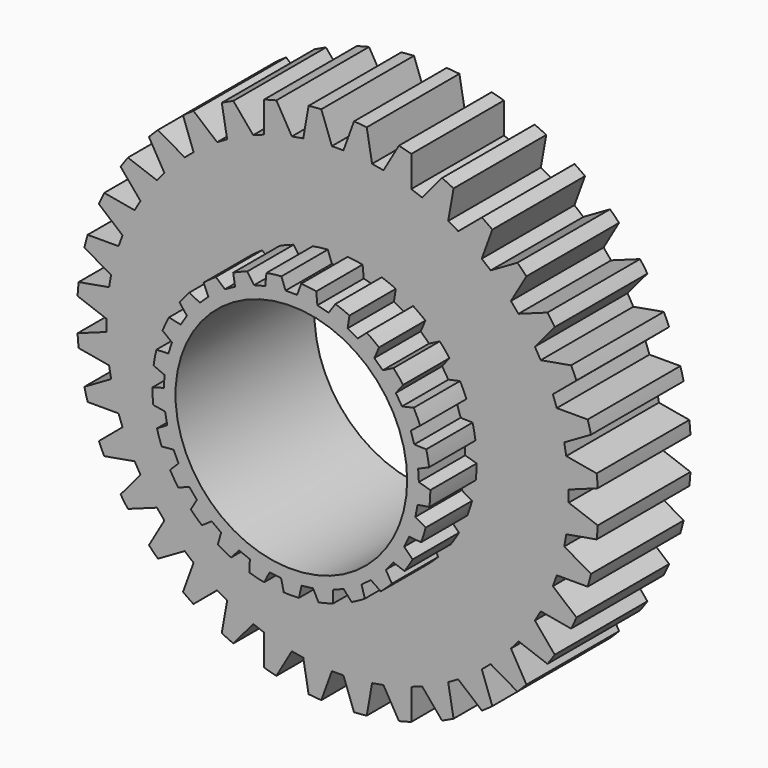
from build123d import *

# Parameters (mm, degrees)
F0_R     = 22.5
F0_R_2   = 10
F1_DEPTH = 10
F3_DEPTH = 25
F4_COUNT = 36
F2_R     = 12
F2_R_2   = 10
F5_DEPTH = 5
F7_DEPTH = 5
F8_COUNT = 25


with BuildPart() as f1:
    # F0 (on Front) → F1 (new body)
    with BuildSketch(Plane.XZ):
        Circle(F0_R)
        Circle(F0_R_2, mode=Mode.SUBTRACT)
    extrude(amount=F1_DEPTH)

    # F2 (on face) → F3 (cut)
    with BuildSketch(Plane.XZ.offset(10)):
        with BuildLine():
            Line((-0.5, 19.95), (0, 19.95))
            Line((0, 19.95), (0.5, 19.95))
            Line((0.5, 19.95), (1.4119827294, 22.4556519561))
            ThreePointArc((1.4119827294, 22.4556519561), (0, 22.5), (-1.4119827294, 22.4556519561))
            Line((-1.4119827294, 22.4556519561), (-0.5, 19.95))
        make_face()
    f3 = extrude(amount=-F3_DEPTH, mode=Mode.SUBTRACT)

    # F4: F3 ×36 about axis
    f4_axis = Axis((0, 0, 0), (0, 1, 0))
    for i in range(1, F4_COUNT):
        add(f3.rotate(f4_axis, i * 360 / F4_COUNT), mode=Mode.SUBTRACT)

    # F2 (on face) → F5 (join)
    with BuildSketch(Plane.XZ.offset(10)):
        Circle(F2_R)
        Circle(F2_R_2, mode=Mode.SUBTRACT)
    extrude(amount=F5_DEPTH)

    # F6 (on face) → F7 (cut)
    with BuildSketch(Plane.XZ.offset(15)):
        with BuildLine():
            Line((-0.5, 11), (0, 11))
            Line((0, 11), (0.5, 11))
            Line((0.5, 11), (0.8529237373, 11.969649999))
            ThreePointArc((0.8529237373, 11.969649999), (0, 12), (-0.8529237373, 11.969649999))
            Line((-0.8529237373, 11.969649999), (-0.5, 11))
        make_face()
    f7 = extrude(amount=-F7_DEPTH, mode=Mode.SUBTRACT)

    # F8: F7 ×25 about axis
    f8_axis = Axis((0, -10, 0), (0, 1, 0))
    for i in range(1, F8_COUNT):
        add(f7.rotate(f8_axis, i * 360 / F8_COUNT), mode=Mode.SUBTRACT)


solid = f1.part
